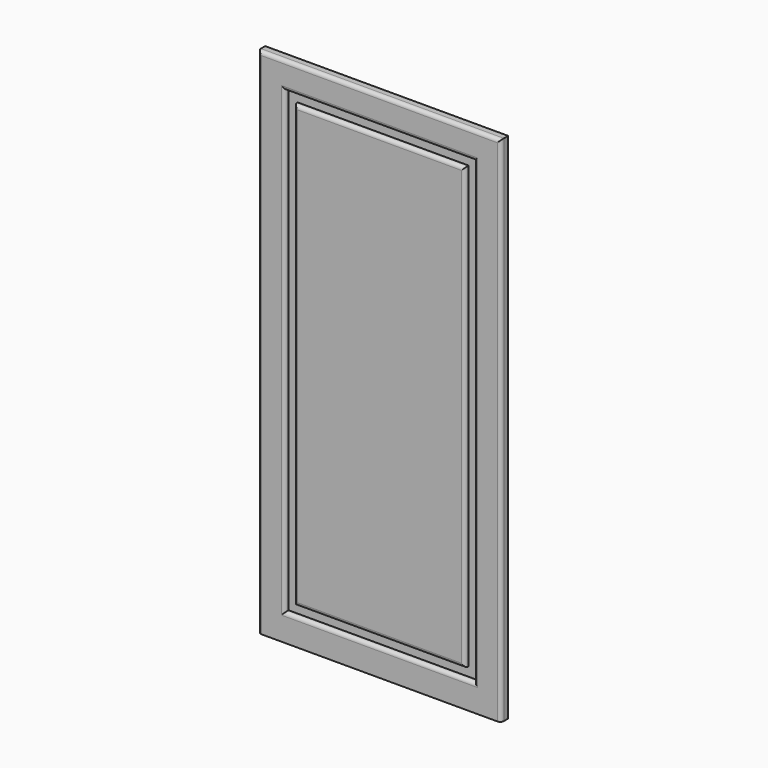
from build123d import *

# Parameters (mm, degrees)
F0_W     = 342.9
F0_H     = 723.9
F1_DEPTH = 12.7
F2_W     = 266.7
F2_H     = 647.7
F2_W_2   = 241.3
F2_H_2   = 622.3
F3_DEPTH = 6.35
F4_R     = 5.08


with BuildPart() as f1:
    # F0 (on Front) → F1 (new body)
    with BuildSketch(Plane.XZ):
        with Locations((-45.644873, -8.329587)):
            Rectangle(F0_W, F0_H)
    extrude(amount=F1_DEPTH)

    # F2 (on face) → F3 (cut)
    with BuildSketch(Plane.XZ.offset(12.7)):
        with Locations((-45.644873, -8.329587)):
            Rectangle(F2_W, F2_H)
        with Locations((-45.644873, -8.329587)):
            Rectangle(F2_W_2, F2_H_2, mode=Mode.SUBTRACT)
    extrude(amount=-F3_DEPTH, mode=Mode.SUBTRACT)

    # F4
    f4_edges = [f1.edges().sort_by_distance(p)[0] for p in [
        (-217.094873, -12.7, -8.329587),
        (-45.644873, -12.7, 353.620413),
        (125.805127, -12.7, -8.329587),
        (87.705127, -12.7, -8.329587),
        (-45.644873, -12.7, 315.520413),
        (-178.994873, -12.7, -8.329587),
        (-166.294873, -12.7, -8.329587),
        (-45.644873, -12.7, 302.820413),
        (75.005127, -12.7, -8.329587),
        (-45.644873, -12.7, -319.479587),
        (-45.644873, -12.7, -332.179587),
    ]]
    fillet(f4_edges, radius=F4_R)


solid = f1.part
